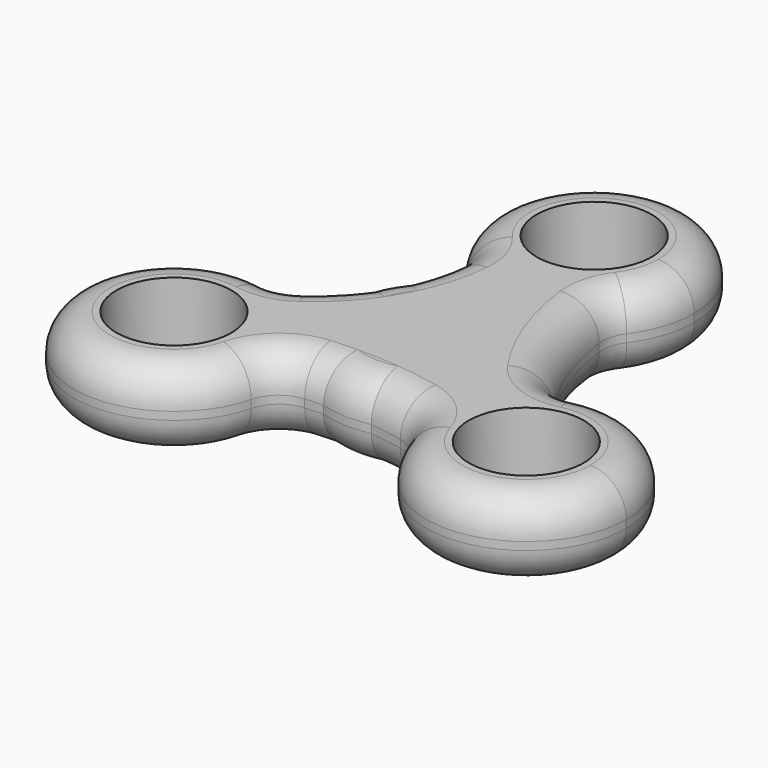
from build123d import *

# Parameters (mm, degrees)
F1_R     = 14.2951519795
F3_DEPTH = 11.1
F0_R     = 11.3238281305
F2_R     = 10.8114032624
F4_R     = 5
F4_2_R   = 5
F4_3_R   = 5
F5_D     = 16


with BuildPart() as f3:
    # F1 (on Top) → F3 (new body)
    with BuildSketch(Plane.XY):
        Circle(F1_R)
    extrude(amount=F3_DEPTH)

    # F4#2
    f4_2_edges = [f3.edges().sort_by_distance(p)[0] for p in [
        (-14.295152, 0, 11.1),
        (14.295152, 0, 5.55),
        (-14.295152, 0, 0),
    ]]
    fillet(f4_2_edges, radius=F4_2_R)


with BuildPart() as f3b:
    # F0 (on Top) → F3, piece 2 (new body)
    with BuildSketch(Plane.XY):
        Circle(F0_R)
    extrude(amount=F3_DEPTH)

    # F4#3
    f4_3_edges = [f3b.edges().sort_by_distance(p)[0] for p in [
        (11.323828, 0, 5.55),
        (-11.323828, 0, 0),
        (-11.323828, 0, 11.1),
    ]]
    fillet(f4_3_edges, radius=F4_3_R)


with BuildPart() as f3c:
    # F2 (on Top) → F3, piece 3 (new body)
    with BuildSketch(Plane.XY):
        with BuildLine():
            ThreePointArc((10.0070538474, 18.6519305897), (0.4524790982, 14.4052227538), (-9.3582312442, 18.0210751652))
            ThreePointArc((-9.3582312442, 18.0210751652), (-12.1133667208, 7.022162649), (-20.1888015839, -0.9373725011))
            ThreePointArc((-20.1888015839, -0.9373725011), (-13.2547051149, -5.9878581942), (-10.6070549823, -14.1474567354))
            ThreePointArc((-10.6070549823, -14.1474567354), (-10.6072741936, -14.2255127111), (-10.6079318204, -14.3035662244))
            ThreePointArc((-10.6079318204, -14.3035662244), (0.1005769764, -13.7389914966), (10.6750090692, -15.5200841919))
            ThreePointArc((10.6750090692, -15.5200841919), (12.3301219096, -7.4450567582), (18.2682310615, -1.7280360071))
            ThreePointArc((18.2682310615, -1.7280360071), (12.4336102027, 7.7712046278), (10.0070538474, 18.6519305897))
        make_face()
        with BuildLine():
            ThreePointArc((10.0070538474, 18.6519305897), (12.8879180261, 23.0958929378), (13.8970588812, 28.2949134707))
            ThreePointArc((13.8970588812, 28.2949134707), (-5.6158861689, 41.0067216854), (-9.3582312442, 18.0210751652))
            ThreePointArc((-9.3582312442, 18.0210751652), (0.4524790982, 14.4052227538), (10.0070538474, 18.6519305897))
        make_face()
        with Locations((0, 28.2949134707)):
            Circle(F2_R, mode=Mode.SUBTRACT)
        with BuildLine():
            ThreePointArc((-10.6070549823, -14.1474567354), (-13.2547051149, -5.9878581942), (-20.1888015839, -0.9373725011))
            ThreePointArc((-20.1888015839, -0.9373725011), (-35.7991753963, -22.2437417179), (-10.6079318204, -14.3035662244))
            ThreePointArc((-10.6079318204, -14.3035662244), (-10.6072741936, -14.2255127111), (-10.6070549823, -14.1474567354))
        make_face()
        with Locations((-24.5041138635, -14.1474567354)):
            Circle(F2_R, mode=Mode.SUBTRACT)
        with BuildLine():
            ThreePointArc((38.4011727448, -14.1474567354), (31.8002709024, -2.3197630459), (18.2682310615, -1.7280360071))
            ThreePointArc((18.2682310615, -1.7280360071), (12.3301219096, -7.4450567582), (10.6750090692, -15.5200841919))
            ThreePointArc((10.6750090692, -15.5200841919), (25.1912681207, -28.0275166983), (38.4011727448, -14.1474567354))
        make_face()
        with Locations((24.5041138635, -14.1474567354)):
            Circle(F2_R, mode=Mode.SUBTRACT)
        with Locations((0, 28.2949134707)):
            Circle(F2_R)
        with Locations((-24.5041138635, -14.1474567354)):
            Circle(F2_R)
        with Locations((24.5041138635, -14.1474567354)):
            Circle(F2_R)
    extrude(amount=F3_DEPTH)

    # F4
    f4_edges = [f3c.edges().sort_by_distance(p)[0] for p in [
        (-9.358231, 18.021075, 5.55),
        (10.007054, 18.651931, 5.55),
        (-12.113367, 7.022163, 0),
        (12.43361, 7.771205, 0),
        (36.678106, -20.849857, 11.1),
        (36.678106, -20.849857, 0),
        (-35.799175, -22.243742, 11.1),
        (-0.452479, 42.184604, 0),
        (-0.452479, 42.184604, 11.1),
        (-20.188802, -0.937373, 5.55),
        (-10.607932, -14.303566, 5.55),
        (-35.799175, -22.243742, 0),
        (10.675009, -15.520084, 5.55),
        (18.268231, -1.728036, 5.55),
        (12.43361, 7.771205, 11.1),
        (-12.113367, 7.022163, 11.1),
        (0.100577, -13.738991, 11.1),
        (0.100577, -13.738991, 0),
    ]]
    fillet(f4_edges, radius=F4_R)

    # F5 (through all)
    with Locations(Plane(origin=(0, 0, 0), x_dir=(1, 0, 0), z_dir=(0, 0, -1))):
        with Locations((24.5041138635, 14.1474567354), (0, -28.2949134707), (-24.5041138635, 14.1474567354)):
            Hole(F5_D / 2)


solid = Compound([f3.part, f3b.part, f3c.part])
